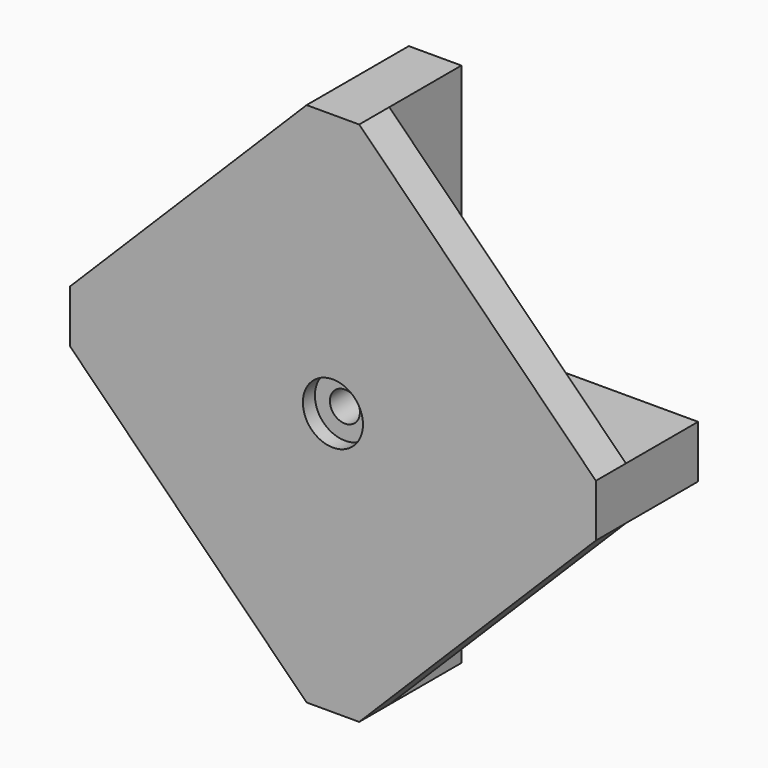
from build123d import *

# Parameters (mm, degrees)
F1_DEPTH = 6
F3_DEPTH = 2.5
F4_R     = 1
F5_DEPTH = 8.501
F6_R     = 2
F7_DEPTH = 1


with BuildPart() as f1:
    # F0 (on Front) → F1 (new body)
    with BuildSketch(Plane.XZ):
        Polygon((1.75, 1.75), (1.75, 17.5), (-1.75, 17.5), (-1.75, 1.75), (-17.5, 1.75), (-17.5, -1.75), (-1.75, -1.75), (-1.75, -17.5), (1.75, -17.5), (1.75, -1.75), (17.5, -1.75), (17.5, 1.75), align=None)
    extrude(amount=F1_DEPTH)

    # F2 (on face) → F3 (join)
    with BuildSketch(Plane.XZ.offset(6)):
        Polygon((-1.75, 17.5), (-17.5, 1.75), (-17.5, 0), (-17.5, -1.75), (-1.75, -17.5), (0, -17.5), (1.75, -17.5), (17.5, -1.75), (17.5, 0), (17.5, 1.75), (1.75, 17.5), (0, 17.5), align=None)
    extrude(amount=F3_DEPTH)

    # F4 (on face) → F5 (cut, through all)
    with BuildSketch(Plane(origin=(0, 0, 0), x_dir=(-1, 0, 0), z_dir=(0, 1, 0))):
        Circle(F4_R)
    extrude(amount=-F5_DEPTH, mode=Mode.SUBTRACT)

    # F6 (on face) → F7 (cut)
    with BuildSketch(Plane.XZ.offset(8.5)):
        Circle(F6_R)
    extrude(amount=-F7_DEPTH, mode=Mode.SUBTRACT)


solid = f1.part
